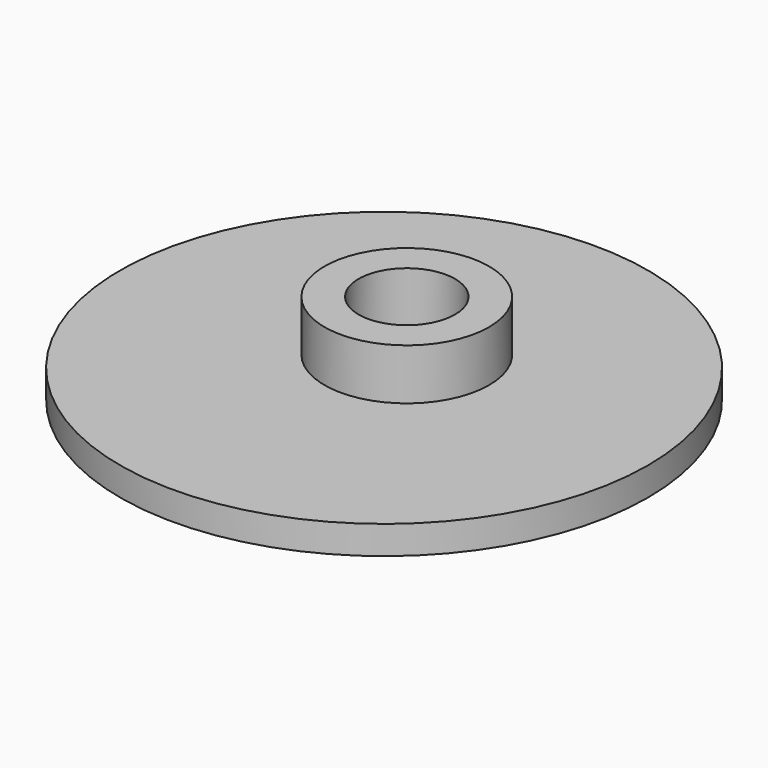
from build123d import *

# Parameters (mm, degrees)
CYLINDER005_R     = 2
CYLINDER005_DEPTH = 10
CYLINDER004_R     = 1.7
CYLINDER004_DEPTH = 10
CYLINDER003_R     = 2.9
CYLINDER003_DEPTH = 7.8
CYLINDER_R        = 9.3
CYLINDER_DEPTH    = 1
CYLINDER002_R     = 1.7
CYLINDER002_DEPTH = 6
CYLINDER001_R     = 2.9
CYLINDER001_DEPTH = 1.8


with BuildPart() as cilindro005:
    # Cylinder005 → Cylinder005 (new body)
    with BuildSketch(Plane(origin=(0, 1, -4), x_dir=(1, 0, 0), z_dir=(0, 0, 1))):
        Circle(CYLINDER005_R)
    extrude(amount=CYLINDER005_DEPTH)


with BuildPart() as cilindro004:
    # Cylinder004 → Cylinder004 (new body)
    with BuildSketch(Plane.XY.offset(-3)):
        Circle(CYLINDER004_R)
    extrude(amount=CYLINDER004_DEPTH)


with BuildPart() as cut001:
    # Cylinder003 → Cylinder003 (new body)
    with BuildSketch(Plane.XY):
        Circle(CYLINDER003_R)
    extrude(amount=CYLINDER003_DEPTH)

    # Cut001: cut Cilindro004
    add(cilindro004.part, mode=Mode.SUBTRACT)


with BuildPart() as cut001_1:
    # Cut001 placement: moved
    add(cut001.part.moved(Location((0, 1, -4))))


with BuildPart() as cut003:
    # Cylinder → Cylinder (new body)
    with BuildSketch(Plane.XY.offset(-1)):
        Circle(CYLINDER_R)
    extrude(amount=CYLINDER_DEPTH)

    # Cut002: cut Cut001
    add(cut001_1.part, mode=Mode.SUBTRACT)

    # Cut003: cut Cilindro005
    add(cilindro005.part, mode=Mode.SUBTRACT)


with BuildPart() as cilindro002:
    # Cylinder002 → Cylinder002 (new body)
    with BuildSketch(Plane.XY.offset(-3)):
        Circle(CYLINDER002_R)
    extrude(amount=CYLINDER002_DEPTH)


with BuildPart() as fusion:
    # Cylinder001 → Cylinder001 (new body)
    with BuildSketch(Plane.XY):
        Circle(CYLINDER001_R)
    extrude(amount=CYLINDER001_DEPTH)

    # Cut: cut Cilindro002
    add(cilindro002.part, mode=Mode.SUBTRACT)


with BuildPart() as fusion_1:
    # Cut placement: moved
    add(fusion.part.moved(Location((0, 1, 0))))

    # Fusion: union Cut003
    add(cut003.part)


solid = fusion_1.part
